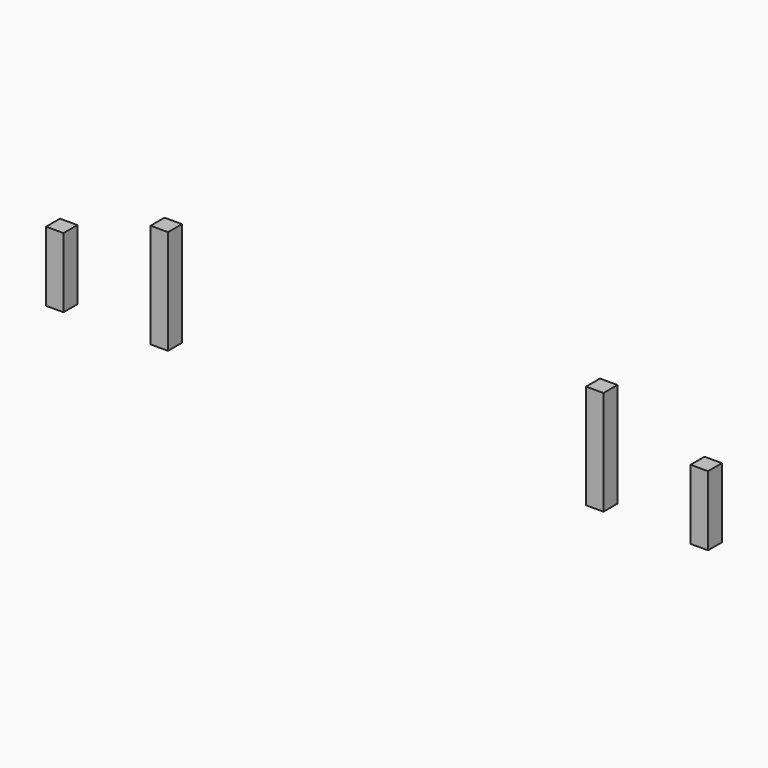
from build123d import *

# Parameters (mm, degrees)
F1_DEPTH = 1828.8
F3_DEPTH = 1219.2


with BuildPart() as f1:
    # F0 (on Top) → F1 (new body)
    with BuildSketch(Plane.XY):
        Polygon((-3657.6, -152.4), (-3657.6, 0), (-3657.6, 152.4), (-3962.4, 152.4), (-3962.4, -152.4), align=None)
        Polygon((3657.6, 152.4), (3657.6, 0), (3657.6, -152.4), (3962.4, -152.4), (3962.4, 152.4), align=None)
    extrude(amount=F1_DEPTH)


with BuildPart() as f3:
    # F2 (on Top) → F3 (new body)
    with BuildSketch(Plane.XY):
        Polygon((-5486.4, -152.4), (-5486.4, 0), (-5486.4, 152.4), (-5791.2, 152.4), (-5791.2, -152.4), align=None)
        Polygon((5486.4, 152.4), (5486.4, 0), (5486.4, -152.4), (5791.2, -152.4), (5791.2, 152.4), align=None)
    extrude(amount=F3_DEPTH)


solid = Compound([f1.part, f3.part])
